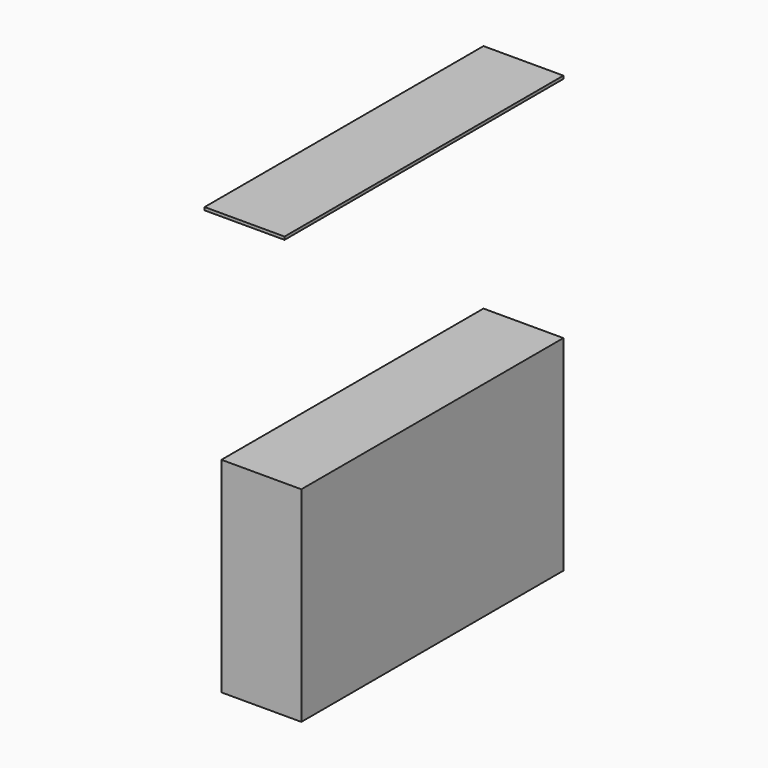
from build123d import *

# Parameters (mm, degrees)
F0_W     = 102.480672
F0_H     = 64.078458
F0_W_2   = 109.059647
F0_H_2   = 0.924774
F1_DEPTH = 25


with BuildPart() as f1:
    # F0 (on Right) → F1 (new body)
    with BuildSketch(Plane.YZ):
        with Locations((-51.240336, -32.039229)):
            Rectangle(F0_W, F0_H)
        with Locations((-54.529823, 71.829807)):
            Rectangle(F0_W_2, F0_H_2)
        with Locations((-51.240336, -32.039229)):
            Rectangle(F0_W, F0_H)
    extrude(amount=F1_DEPTH)


solid = f1.part
